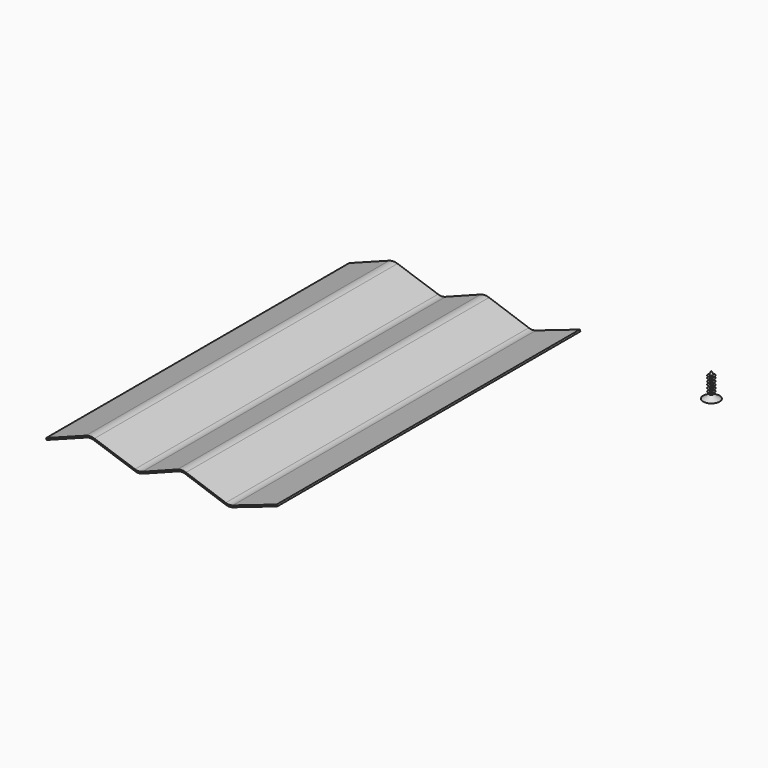
from build123d import *

# Parameters (mm, degrees)
F1_DEPTH = 292.1
F5_DEPTH = 1.27
F6_SCALE = 5


with BuildPart() as f1:
    # F0 (on Front) → F1 (new body)
    with BuildSketch(Plane.XZ):
        with BuildLine():
            Line((-279.2750697707, 1.1877493809), (-278.8254572617, 0))
            Line((-278.8254572617, 0), (-248.0888209369, 11.6350944043))
            ThreePointArc((-248.0888209369, 11.6350944043), (-245.2665745211, 12.1766908251), (-242.4272611613, 11.7331807804))
            Line((-242.4272611613, 11.7331807804), (-210.7252976528, 0.9726533622))
            ThreePointArc((-210.7252976528, 0.9726533622), (-207.8699176262, 0.5294370778), (-205.0337024945, 1.0821752597))
            Line((-205.0337024945, 1.0821752597), (-177.5489221499, 11.6069671453))
            ThreePointArc((-177.5489221499, 11.6069671453), (-174.6858817442, 12.1601785727), (-171.8065708865, 11.6990796328))
            Line((-171.8065708865, 11.6990796328), (-140.7817487445, 0.9464140881))
            ThreePointArc((-140.7817487445, 0.9464140881), (-138.0502724457, 0.4842476743), (-135.3173327352, 0.9376802539))
            Line((-135.3173327352, 0.9376802539), (-101.0254572617, 12.7))
            Line((-101.0254572617, 12.7), (-101.4375091841, 13.9012964718))
            Line((-101.4375091841, 13.9012964718), (-135.3151856139, 2.2810494915))
            ThreePointArc((-135.3151856139, 2.2810494915), (-138.0481253243, 1.8276169119), (-140.7796016232, 2.2897833257))
            Line((-140.7796016232, 2.2897833257), (-171.3906809893, 12.8990527964))
            ThreePointArc((-171.3906809893, 12.8990527964), (-174.7062510679, 13.430015212), (-178.0030854744, 12.7929838715))
            Line((-178.0030854744, 12.7929838715), (-205.0596798629, 2.4321579342))
            ThreePointArc((-205.0596798629, 2.4321579342), (-207.8958949946, 1.8794197524), (-210.7512750212, 2.3226360367))
            Line((-210.7512750212, 2.3226360367), (-242.0190615831, 12.9357917334))
            ThreePointArc((-242.0190615831, 12.9357917334), (-245.2885739367, 13.4465002698), (-248.5384334458, 12.8228437852))
            Line((-248.5384334458, 12.8228437852), (-279.2750697707, 1.1877493809))
        make_face()
    extrude(amount=F1_DEPTH)


with BuildPart() as f3:
    # F2 (on Front) → F3 (revolve)
    with BuildSketch(Plane.XZ):
        Polygon((-6.35, 0), (0, 0), (0, 19.05), (-1.27, 16.2569159193), (-2.54, 15.7646145672), (-1.27, 15.379576547), (-1.27, 14.5151677372), (-2.54, 14.0951266512), (-1.27, 13.6400824994), (-1.27, 12.1846198347), (-2.54, 11.7645787487), (-1.27, 11.3445376627), (-1.27, 9.9240780639), (-2.54, 9.5040369779), (-1.27, 8.9789859133), (-1.27, 7.6285332272), (-2.54, 7.2084921412), (-1.27, 6.7534479894), (-1.27, 5.3747256117), (-2.54, 4.9546845257), (-1.27, 4.4996403739), (-1.27, 2.9613055742), align=None)
    revolve(axis=Axis((0, 0, 9.525), (0, 0, -1)))

    # F4 (on face) → F5 (cut)
    with BuildSketch(Plane(origin=(0, 0, 0), x_dir=(1, 0, 0), z_dir=(0, 0, -1))):
        Polygon((1.0378063889, 3.8937258068), (-1.0378063889, 3.8937258068), (-1.0378063889, 1.0148652364), (-3.8707845379, 1.0148652364), (-3.8707845379, -1.0148652364), (-1.0378063889, -1.0148652364), (-1.0378063889, -3.8937258068), (1.0378063889, -3.8937258068), (1.0378063889, -1.0148652364), (3.8707845379, -1.0148652364), (3.8707845379, 1.0148652364), (1.0378063889, 1.0148652364), align=None)
    extrude(amount=-F5_DEPTH, mode=Mode.SUBTRACT)


with BuildPart() as f1_1:
    # F6: moved
    add(f1.part.scale(F6_SCALE))


with BuildPart() as f3_1:
    # F6: moved
    add(f3.part.scale(F6_SCALE))


solid = Compound([f1_1.part, f3_1.part])
